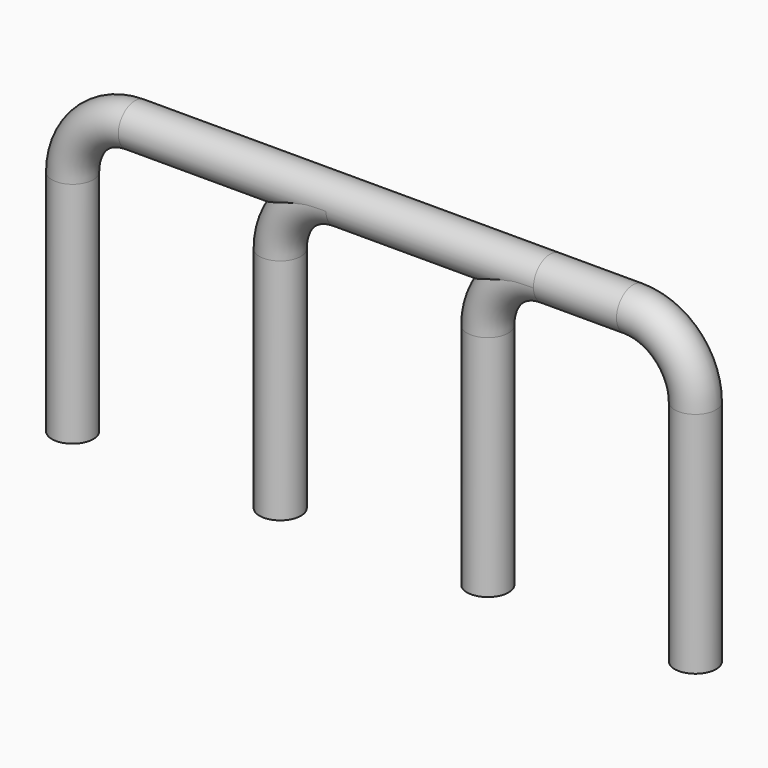
from build123d import *

# Parameters (mm, degrees)
F2_R = 0.254


with BuildPart() as f3:
    # F3: sweep along a path in F0
    with BuildLine(Plane.XZ) as f3_path:
        Line((0, -2.54), (0, 0.254))
        ThreePointArc((0, 0.254), (-0.2231846327, 0.7928153673), (-0.762, 1.016))
        Line((-0.762, 1.016), (-4.318, 1.016))
        ThreePointArc((-4.318, 1.016), (-4.8568153673, 0.7928153673), (-5.08, 0.254))
        Line((-5.08, 0.254), (-5.08, -2.54))
    # F2 (on offset) → F3 (sweep)
    with BuildSketch(Plane.XY.offset(-2.54)):
        Circle(F2_R)
    sweep(path=f3_path.line)


with BuildPart() as f5:
    # F5: sweep along a path in F4
    with BuildLine(Plane.XZ) as f5_path:
        Line((0, -2.54), (0, 0.254))
        ThreePointArc((0, 0.254), (-0.2231846327, 0.7928153673), (-0.762, 1.016))
        Line((-0.762, 1.016), (-6.858, 1.016))
        ThreePointArc((-6.858, 1.016), (-7.3968153673, 0.7928153673), (-7.62, 0.254))
        Line((-7.62, 0.254), (-7.62, -2.54))
    # F2 (on offset) → F5 (sweep)
    with BuildSketch(Plane.XY.offset(-2.54)):
        Circle(F2_R)
    sweep(path=f5_path.line)


with BuildPart() as f7:
    # F7: sweep along a path in F6
    with BuildLine(Plane.XZ) as f7_path:
        Line((0, -2.54), (0, 0.254))
        ThreePointArc((0, 0.254), (-0.2231846327, 0.7928153673), (-0.762, 1.016))
        Line((-0.762, 1.016), (-1.778, 1.016))
        ThreePointArc((-1.778, 1.016), (-2.3168153673, 0.7928153673), (-2.54, 0.254))
        Line((-2.54, 0.254), (-2.54, -2.54))
    # F2 (on offset) → F7 (sweep)
    with BuildSketch(Plane.XY.offset(-2.54)):
        Circle(F2_R)
    sweep(path=f7_path.line)


solid = Compound([f3.part, f5.part, f7.part])
